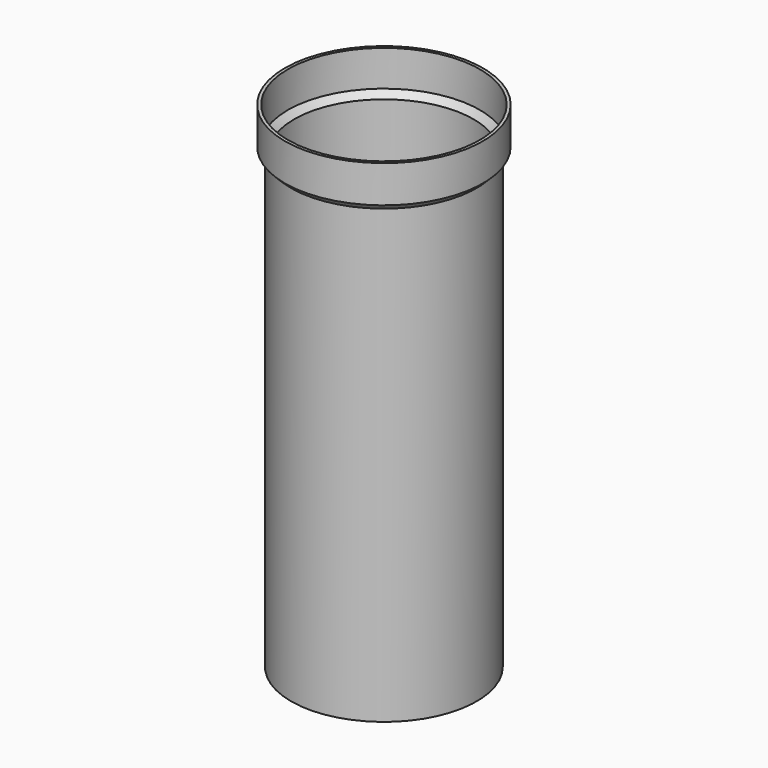
from build123d import *

# Parameters (mm, degrees)
F2_T = -5


with BuildPart() as f1:
    # F0 (on Front) → F1 (revolve)
    with BuildSketch(Plane.XZ):
        Polygon((0, 0), (-160, 0), (-160, -60), (-150, -70), (-150, -800), (0, -800), align=None)
    revolve(axis=Axis((0, 0, -400), (0, 0, -1)))

    # F2
    f2_openings = [f1.faces().sort_by_distance(p)[0] for p in [
        (0, 0, 0),
        (0, 0, -800),
    ]]
    offset(amount=F2_T, openings=f2_openings, kind=Kind.INTERSECTION)


solid = f1.part
